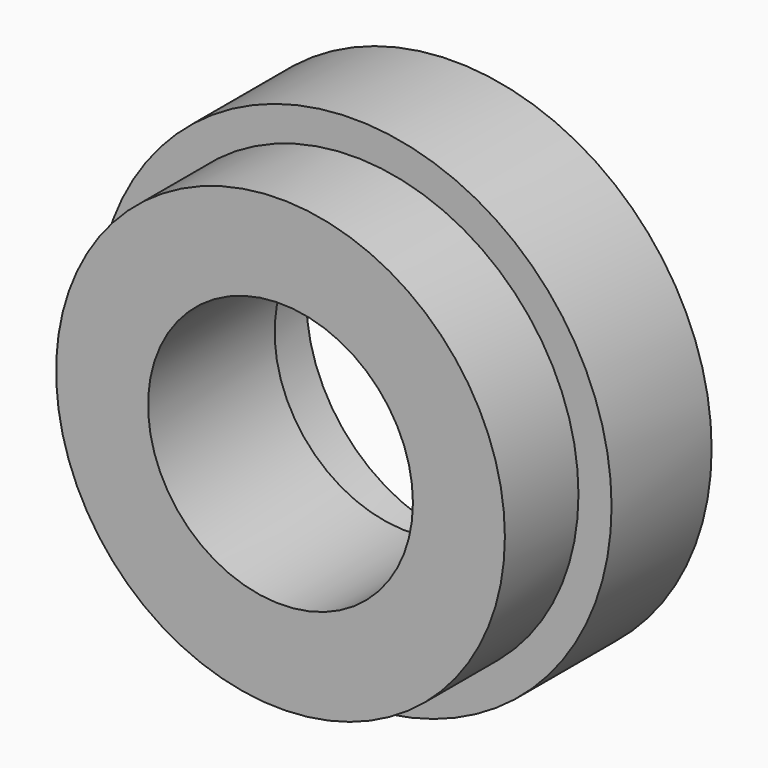
from build123d import *

# Parameters (mm, degrees)
F0_R     = 70
F1_DEPTH = 59
F2_R     = 70
F2_R_2   = 61
F3_DEPTH = 25
F4_R     = 36
F5_DEPTH = 59
F6_R     = 44
F7_DEPTH = 16


with BuildPart() as f1:
    # F0 (on Front) → F1 (new body)
    with BuildSketch(Plane.XZ):
        Circle(F0_R)
    extrude(amount=-F1_DEPTH)

    # F2 (on face) → F3 (cut)
    with BuildSketch(Plane.XZ):
        Circle(F2_R)
        Circle(F2_R_2, mode=Mode.SUBTRACT)
    extrude(amount=-F3_DEPTH, mode=Mode.SUBTRACT)

    # F4 (on face) → F5 (cut, through all)
    with BuildSketch(Plane.XZ):
        Circle(F4_R)
    extrude(amount=-F5_DEPTH, mode=Mode.SUBTRACT)

    # F6 (on face) → F7 (cut)
    with BuildSketch(Plane(origin=(0, 59, 0), x_dir=(-1, 0, 0), z_dir=(0, 1, 0))):
        with Locations((-3.819107, 0)):
            Circle(F6_R)
    extrude(amount=-F7_DEPTH, mode=Mode.SUBTRACT)


solid = f1.part
